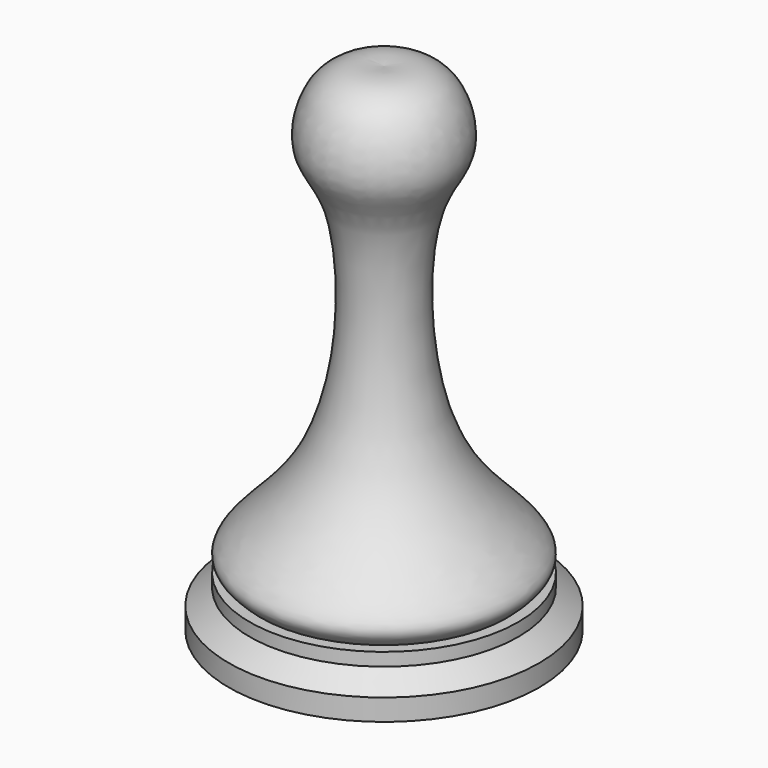
from build123d import *


with BuildPart() as f1:
    # F0 (on Front) → F1 (revolve)
    with BuildSketch(Plane.XZ):
        with BuildLine():
            Line((-63.5, -95.9704886557), (0, -95.9704886557))
            Line((0, -95.9704886557), (0, 107.2295113443))
            add(Edge.make_bspline(
                [(0, 107.2295113443), (-4.0380336911, 107.6443376768), (-12.4894535338, 108.5125502194), (-26.551275023, 100.9903492094), (-32.5630903122, 75.2264960729), (-12.6633793563, 58.1962073113), (-13.9297379015, -35.7831855221), (-61.0798928989, -65.44655467), (-52.824981826, -72.9040453916), (-50.2941720188, -75.1903802156)],
                knots=[0, 0, 0, 0, 0.0969319493, 0.2028741368, 0.3329700637, 0.4685506761, 0.7301526998, 0.917269588, 1, 1, 1, 1], degree=3))
            Line((-50.2941720188, -75.1903802156), (-54.9561530352, -75.1903802156))
            Line((-54.9561530352, -75.1903802156), (-54.9561530352, -80.5183649063))
            Line((-54.9561530352, -80.5183649063), (-63.5, -87.1783420444))
            Line((-63.5, -87.1783420444), (-63.5, -95.9704886557))
        make_face()
    revolve(axis=Axis((0, 0, 5.6295113443), (0, 0, -1)))


solid = f1.part
